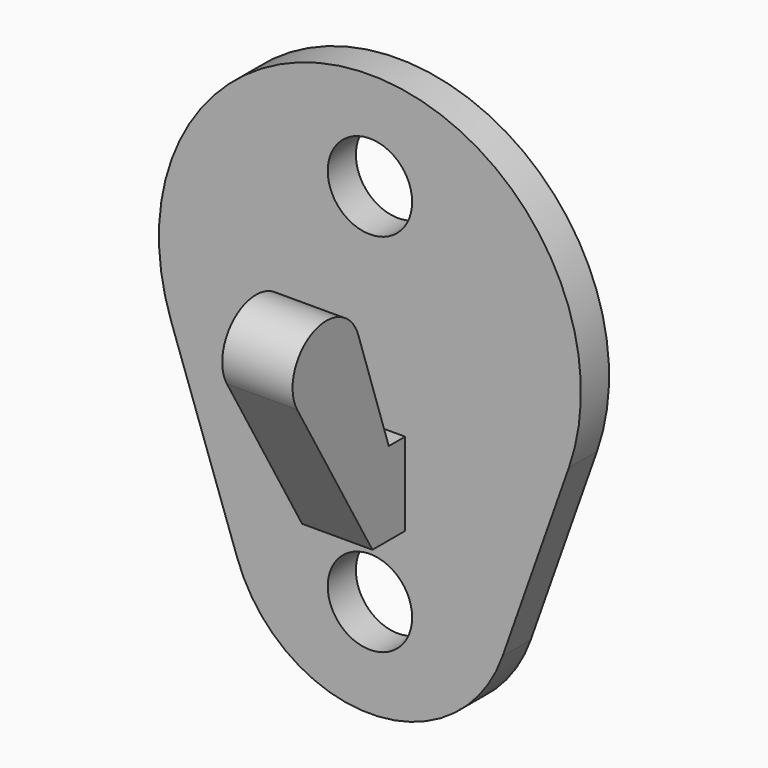
from build123d import *

# Parameters (mm, degrees)
F1_DEPTH = 3.175
F2_R     = 3.81
F3_DEPTH = 25.4
F6_DEPTH = 6.35


with BuildPart() as f1:
    # F0 (on Front) → F1 (new body)
    with BuildSketch(Plane.XZ):
        with BuildLine():
            Line((-17.960512, -10.480528), (-11.973675, -27.413861))
            ThreePointArc((-11.973675, -27.413861), (0, -35.880528), (11.973675, -27.413861))
            Line((11.973675, -27.413861), (17.960512, -10.480528))
            ThreePointArc((17.960512, -10.480528), (0, 14.919472), (-17.960512, -10.480528))
        make_face()
    extrude(amount=F1_DEPTH)

    # F2 (on face) → F3 (cut)
    with BuildSketch(Plane.XZ.offset(3.175)):
        with Locations((0, 6.029472)):
            Circle(F2_R)
        with Locations((0, -26.990528)):
            Circle(F2_R)
    extrude(amount=-F3_DEPTH, mode=Mode.SUBTRACT)

    # F5 (on offset) → F6 (join)
    with BuildSketch(Plane.YZ.offset(3.175)):
        with BuildLine():
            Line((-15.357632, -5.726944), (-6.861671, -20.32))
            Line((-6.861671, -20.32), (-3.175, -20.32))
            Line((-3.175, -20.32), (-3.175, -12.826101))
            Line((-3.175, -12.826101), (-5.018335, -12.826101))
            Line((-5.018335, -12.826101), (-8.419373, -2.702977))
            ThreePointArc((-8.419373, -2.702977), (-13.58725, -0.317314), (-15.357632, -5.726944))
        make_face()
    extrude(amount=-F6_DEPTH)


solid = f1.part
